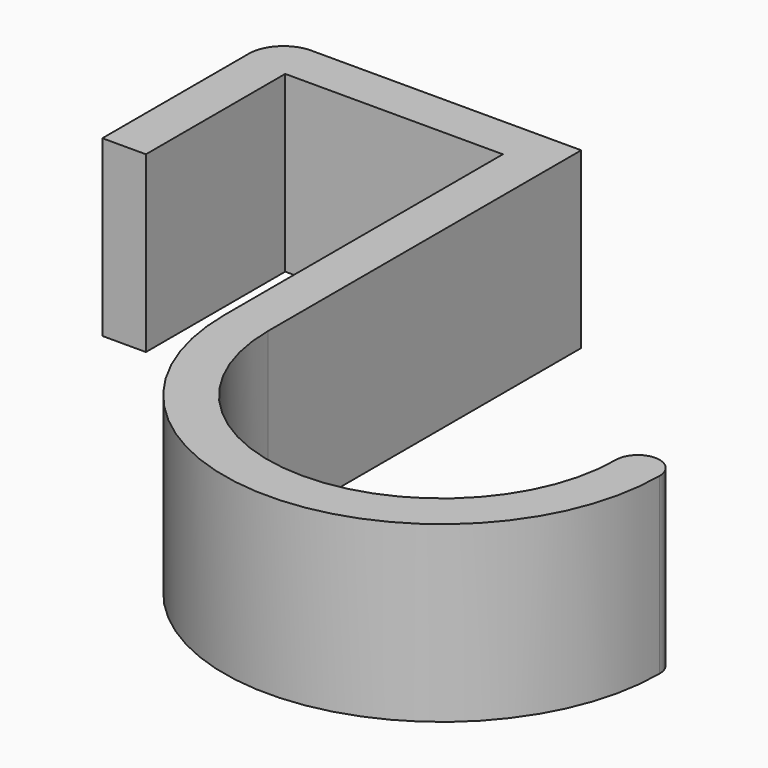
from build123d import *

# Parameters (mm, degrees)
F1_DEPTH = 12.7
F2_R     = 2.54


with BuildPart() as f1:
    # F0 (on Top) → F1 (new body)
    with BuildSketch(Plane.XY):
        with BuildLine():
            Line((-11.1125, -12.7), (-7.9375, -12.7))
            Line((-7.9375, -12.7), (-7.9375, 0))
            Line((-7.9375, 0), (7.9375, 0))
            Line((7.9375, 0), (7.9375, -25.4))
            ThreePointArc((7.9375, -25.4), (23.8125, -41.275), (39.6875, -25.4))
            ThreePointArc((39.6875, -25.4), (38.1, -23.8125), (36.5125, -25.4))
            ThreePointArc((36.5125, -25.4), (23.8125, -38.1), (11.1125, -25.4))
            Line((11.1125, -25.4), (11.1125, 3.175))
            Line((11.1125, 3.175), (-11.1125, 3.175))
            Line((-11.1125, 3.175), (-11.1125, -12.7))
        make_face()
    extrude(amount=F1_DEPTH)

    # F2
    f2_edges = [f1.edges().sort_by_distance(p)[0] for p in [
        (-11.1125, 3.175, 6.35),
    ]]
    fillet(f2_edges, radius=F2_R)


solid = f1.part
